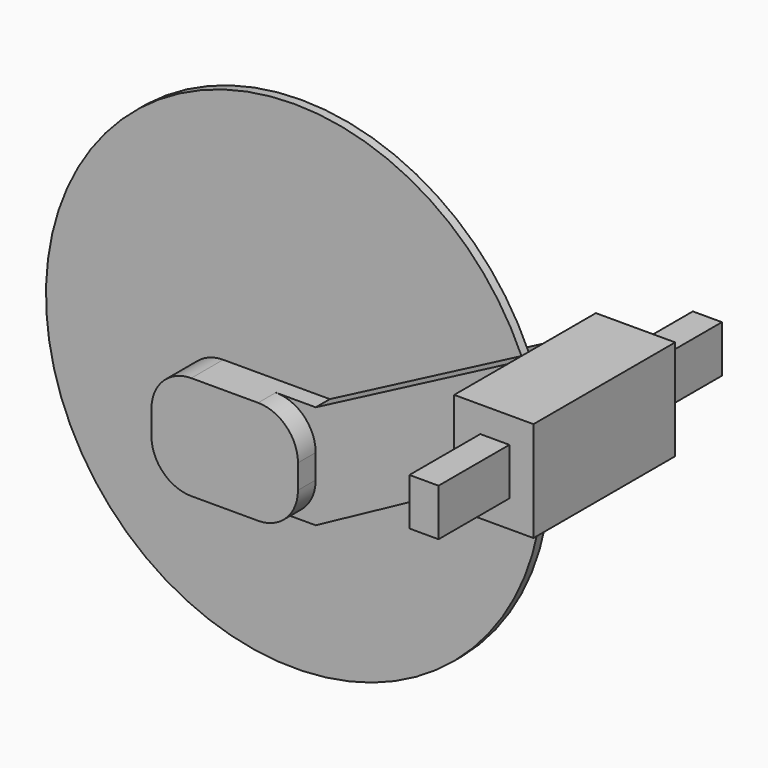
from build123d import *

# Parameters (mm, degrees)
F1_DEPTH = 12.7
F2_DEPTH = 6.35
F0_W     = 8.346368
F0_H     = 13.526869
F3_DEPTH = 25.4
F4_DEPTH = 50.8
F5_DEPTH = 1.27


with BuildPart() as f1:
    # F0 (on Front) → F1 (new body, symmetric)
    with BuildSketch(Plane.XZ):
        with BuildLine():
            Line((-42.533579, 0), (-23.373938, 0))
            ThreePointArc((-23.373938, 0), (-15.291708, 3.347769), (-11.943938, 11.43))
            Line((-11.943938, 11.43), (-11.943938, 18.357894))
            ThreePointArc((-11.943938, 18.357894), (-15.291708, 26.440125), (-23.373938, 29.787894))
            Line((-23.373938, 29.787894), (-42.533579, 29.787894))
            ThreePointArc((-42.533579, 29.787894), (-50.61581, 26.440125), (-53.963579, 18.357894))
            Line((-53.963579, 18.357894), (-53.963579, 11.43))
            ThreePointArc((-53.963579, 11.43), (-50.61581, 3.347769), (-42.533579, 0))
        make_face()
    extrude(amount=F1_DEPTH, both=True)

    # F0 (on Front) → F2 (join, symmetric)
    with BuildSketch(Plane.XZ):
        with BuildLine():
            ThreePointArc((-11.943938, 11.43), (-15.291708, 3.347769), (-23.373938, 0))
            Line((-23.373938, 0), (-11.943938, 0))
            Line((-11.943938, 0), (43.026961, 29.787894))
            Line((43.026961, 29.787894), (43.026961, 58.54751))
            Line((43.026961, 58.54751), (-11.943938, 29.787894))
            Line((-11.943938, 29.787894), (-23.373938, 29.787894))
            ThreePointArc((-23.373938, 29.787894), (-15.291708, 26.440125), (-11.943938, 18.357894))
            Line((-11.943938, 18.357894), (-11.943938, 11.43))
        make_face()
    extrude(amount=F2_DEPTH, both=True)

    # F0 (on Front) → F3 (join, symmetric)
    with BuildSketch(Plane.XZ):
        Polygon((43.026961, 58.54751), (43.026961, 29.787894), (49.09091, 29.787894), (65.763615, 29.787894), (65.763615, 58.54751), align=None)
        with Locations((54.683095, 44.322086)):
            Rectangle(F0_W, F0_H, mode=Mode.SUBTRACT)
    extrude(amount=F3_DEPTH, both=True)

    # F0 (on Front) → F4 (join, symmetric)
    with BuildSketch(Plane.XZ):
        with Locations((54.683095, 44.322086)):
            Rectangle(F0_W, F0_H)
    extrude(amount=F4_DEPTH, both=True)

    # F0 (on Front) → F5 (join, symmetric)
    with BuildSketch(Plane.XZ):
        with BuildLine():
            Line((-11.943938, 0), (-23.373938, 0))
            Line((-23.373938, 0), (-42.533579, 0))
            ThreePointArc((-42.533579, 0), (-50.61581, 3.347769), (-53.963579, 11.43))
            Line((-53.963579, 11.43), (-53.963579, 18.357894))
            ThreePointArc((-53.963579, 18.357894), (-50.61581, 26.440125), (-42.533579, 29.787894))
            Line((-42.533579, 29.787894), (-23.373938, 29.787894))
            Line((-23.373938, 29.787894), (-11.943938, 29.787894))
            Line((-11.943938, 29.787894), (43.026961, 58.54751))
            ThreePointArc((43.026961, 58.54751), (-91.839408, 15.091917), (49.09091, 29.787894))
            Line((49.09091, 29.787894), (43.026961, 29.787894))
            Line((43.026961, 29.787894), (-11.943938, 0))
        make_face()
    extrude(amount=F5_DEPTH, both=True)


solid = f1.part
